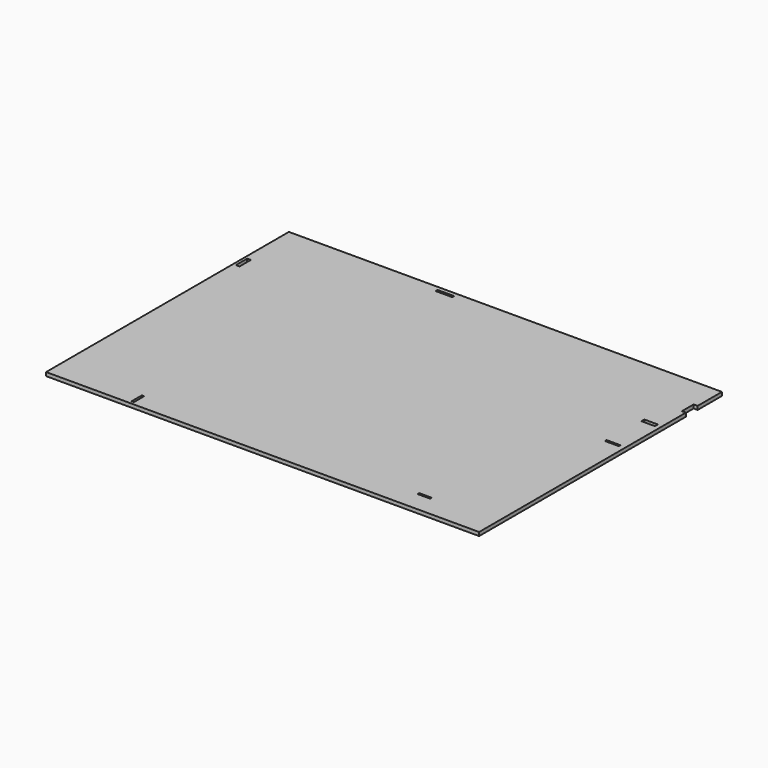
from build123d import *

# Parameters (mm, degrees)
F0_W     = 169.8625
F0_H     = 119.0498
F1_DEPTH = 1.4224
F2_W     = 2.4892
F2_H     = 0.3937
F2_W_2   = 0.4572
F2_H_2   = 2.5146
F2_W_3   = 0.7239
F2_H_3   = 2.7686
F2_W_4   = 3.2512
F2_H_4   = 0.4826
F2_W_5   = 2.3622
F2_H_5   = 0.7239
F2_W_6   = 0.2921
F3_DEPTH = 25.4


with BuildPart() as f1:
    # F0 (on Top) → F1 (new body)
    with BuildSketch(Plane.XY):
        with Locations((3e-06, 7.018937)):
            Rectangle(F0_W, F0_H)
    extrude(amount=F1_DEPTH)

    # F2 (on face) → F3 (cut)
    with BuildSketch(Plane.XY.offset(1.4224)):
        with Locations((58.235853, -44.422413)):
            Rectangle(F2_W, F2_H)
        Polygon((56.991253, -44.225563), (59.480453, -44.225563), (59.480453, -43.831863), (54.502053, -43.831863), (54.502053, -44.619263), (56.991253, -44.619263), align=None)
        Polygon((-52.368447, -46.282963), (-52.368447, -48.797563), (-51.911247, -48.797563), (-51.911247, -51.312163), (-51.454047, -51.312163), (-51.454047, -46.282963), align=None)
        with Locations((-52.139847, -50.054863)):
            Rectangle(F2_W_2, F2_H_2)
        Polygon((-82.403947, 44.750637), (-83.127847, 44.750637), (-83.127847, 41.982037), (-83.851747, 41.982037), (-83.851747, 39.213437), (-82.403947, 39.213437), align=None)
        with Locations((-83.489797, 43.366337)):
            Rectangle(F2_W_3, F2_H_3)
        with Locations((-23.691847, 64.702337)):
            Rectangle(F2_W_4, F2_H_4)
        Polygon((-22.066247, 64.461037), (-25.317447, 64.461037), (-25.317447, 63.978437), (-18.815047, 63.978437), (-18.815047, 64.943637), (-22.066247, 64.943637), align=None)
        Polygon((83.357312, 48.890837), (86.297356, 48.890837), (86.297356, 54.631237), (84.827334, 54.631237), (83.357312, 54.631237), align=None)
        with Locations((81.641953, 37.035387)):
            Rectangle(F2_W_5, F2_H_5)
        Polygon((82.823053, 19.172837), (82.823053, 19.49709), (77.311253, 19.49709), (77.311253, 18.68429), (82.823053, 18.68429), align=None)
        Polygon((80.460853, 36.673437), (80.460853, 37.397337), (77.806553, 37.397337), (77.806553, 35.949537), (82.823053, 35.949537), (82.823053, 36.673437), align=None)
        with Locations((82.969103, 37.035387)):
            Rectangle(F2_W_6, F2_H_5)
        with Locations((82.969103, 36.311487)):
            Rectangle(F2_W_6, F2_H_5)
    extrude(amount=-F3_DEPTH, mode=Mode.SUBTRACT)


solid = f1.part
